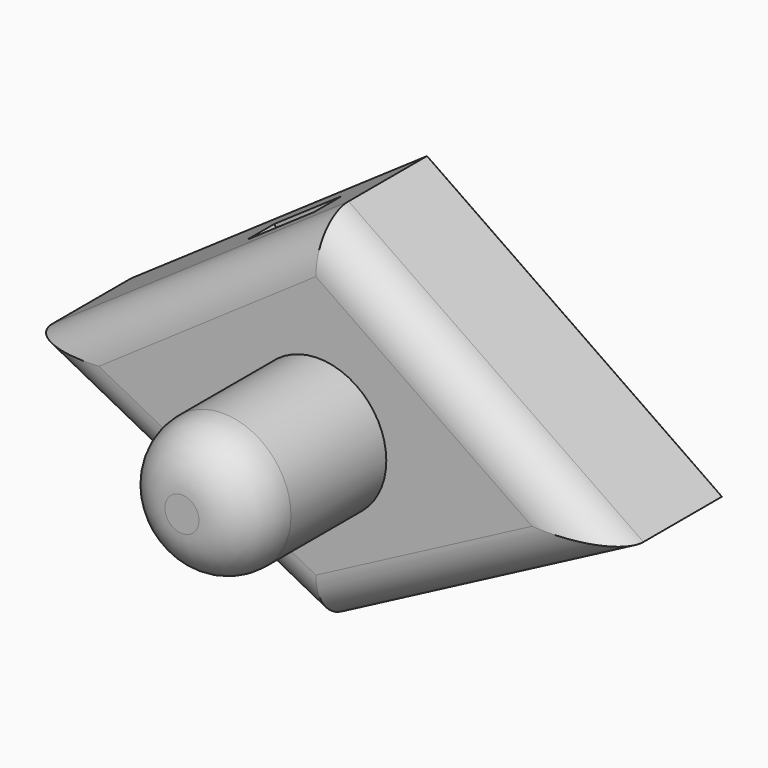
from build123d import *

# Parameters (mm, degrees)
F1_DEPTH = 25.4
F2_SIZE  = 5
F3_R     = 6
F4_W     = 12
F4_H     = 5
F5_DEPTH = 25
F6_R     = 5
F7_R     = 10
F8_DEPTH = 25
F9_R     = 7.5


with BuildPart() as f1:
    # F0 (on Front) → F1 (new body)
    with BuildSketch(Plane.XZ):
        Polygon((43.3064028621, 0), (0, 29.9521442503), (-43.4733256698, 0), (0, -22.7049794048), align=None)
    extrude(amount=F1_DEPTH)

    # F2
    f2_edges = [f1.edges().sort_by_distance(p)[0] for p in [
        (-21.736663, 0, 14.976072),
        (-21.736663, 0, -11.35249),
        (21.653201, 0, -11.35249),
        (21.653201, 0, 14.976072),
    ]]
    chamfer(f2_edges, length=F2_SIZE)

    # F3
    f3_edges = [f1.edges().sort_by_distance(p)[0] for p in [
        (-21.736663, -25.4, 14.976072),
        (21.653201, -25.4, 14.976072),
        (21.653201, -25.4, -11.35249),
        (-21.736663, -25.4, -11.35249),
    ]]
    fillet(f3_edges, radius=F3_R)

    # F4 (on face) → F5 (cut)
    with BuildSketch(Plane(origin=(-13.9936893699, 0, 20.3108068062), x_dir=(0.8234735009, 0, 0.5673547332), z_dir=(-0.5673547332, 0, 0.8234735009))):
        with Locations((0.9934908095, -12.9)):
            Rectangle(F4_W, F4_H)
    extrude(amount=-F5_DEPTH, mode=Mode.SUBTRACT)

    # F6
    f6_edges = [f1.edges().sort_by_distance(p)[0] for p in [
        (-16.903935, 0, -8.235641),
        (16.829559, 0, -8.23594),
    ]]
    fillet(f6_edges, radius=F6_R)

    # F7 (on face) → F8 (join)
    with BuildSketch(Plane.XZ.offset(25.4)):
        with Locations((0.3409804194, 2.2267708555)):
            Circle(F7_R)
    extrude(amount=F8_DEPTH)

    # F9
    f9_edges = [f1.edges().sort_by_distance(p)[0] for p in [
        (-9.65902, -50.4, 2.226771),
    ]]
    fillet(f9_edges, radius=F9_R)


solid = f1.part
